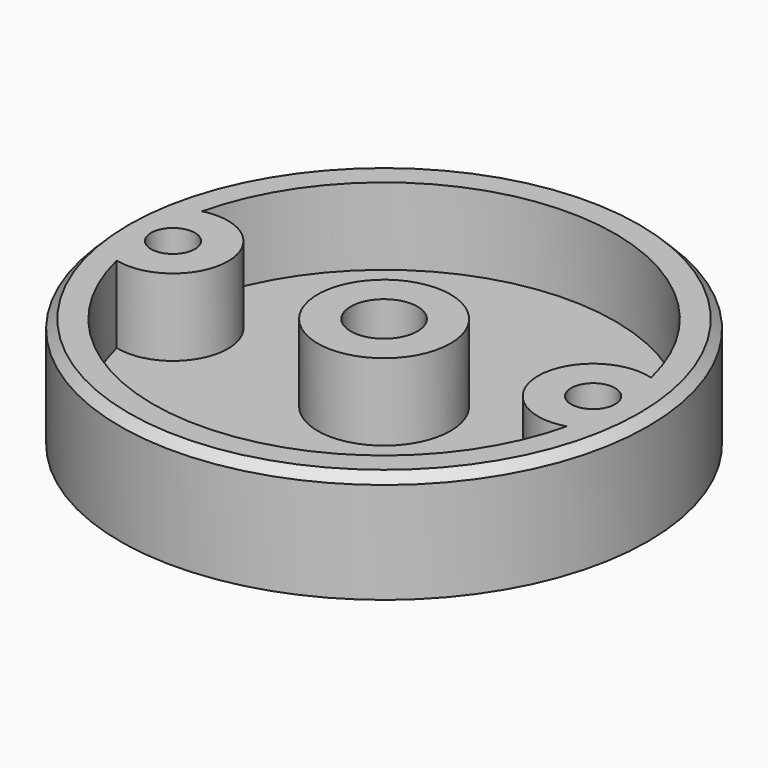
from build123d import *

# Parameters (mm, degrees)
F0_R     = 38.1
F0_R_2   = 3.175
F0_R_3   = 4.826
F1_DEPTH = 15.875
F2_T     = -4.7625
F3_SIZE  = 1.27


with BuildPart() as f1:
    # F0 (on Top) → F1 (new body)
    with BuildSketch(Plane.XY):
        Circle(F0_R)
        with Locations((-30.466994, 0)):
            Circle(F0_R_2, mode=Mode.SUBTRACT)
        Circle(F0_R_3, mode=Mode.SUBTRACT)
        with Locations((30.171195, 0)):
            Circle(F0_R_2, mode=Mode.SUBTRACT)
    extrude(amount=F1_DEPTH)

    # F2
    f2_openings = [f1.faces().sort_by_distance(p)[0] for p in [
        (-37.022369, 0, 15.875),
    ]]
    offset(amount=F2_T, openings=f2_openings)

    # F3
    f3_edges = [f1.edges().sort_by_distance(p)[0] for p in [
        (-38.1, 0, 15.875),
    ]]
    chamfer(f3_edges, length=F3_SIZE)


solid = f1.part
